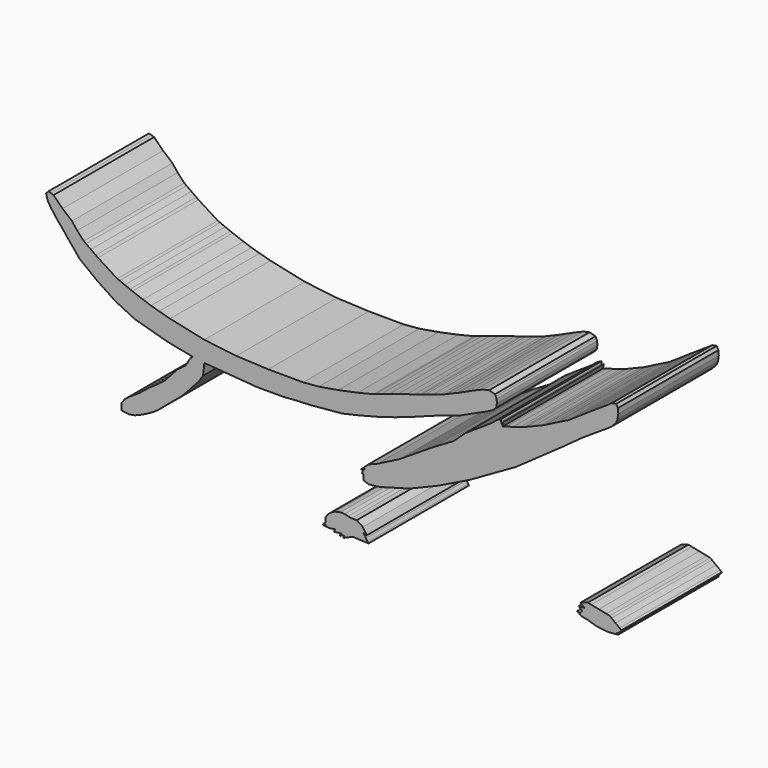
from build123d import *

# Parameters (mm, degrees)
F1_DEPTH = 12.7


with BuildPart() as f1:
    # F0 (on Front) → F1 (new body)
    with BuildSketch(Plane.XZ):
        Polygon((-34.312606, 31.92018), (-34.629344, 31.78937), (-34.960052, 31.69158), (-35.687762, 31.473648), (-36.415218, 31.257494), (-36.74618, 31.15818), (-36.704778, 31.37027), (-36.662106, 31.581344), (-36.74745, 31.454598), (-36.831524, 31.326582), (-36.874196, 31.538672), (-36.915344, 31.751016), (-37.28466, 31.567628), (-37.465254, 31.430976), (-37.60851, 31.292038), (-37.860732, 31.097728), (-37.97808, 31.021782), (-38.282372, 30.81782), (-38.713918, 30.531308), (-39.208456, 30.20187), (-39.704772, 29.872432), (-40.13581, 29.58592), (-40.44061, 29.381958), (-40.556434, 29.304742), (-40.728646, 29.143452), (-41.10736, 28.789376), (-41.486328, 28.4353), (-41.657524, 28.272486), (-42.001694, 28.070048), (-42.75836, 27.623516), (-43.514772, 27.178508), (-43.85818, 26.9748), (-43.999912, 26.885138), (-44.374816, 26.645108), (-44.904152, 26.307542), (-45.50918, 25.920192), (-46.115478, 25.53462), (-46.64456, 25.1968), (-47.01921, 24.957024), (-47.16018, 24.866092), (-49.362106, 23.745698), (-50.311558, 23.368254), (-51.055524, 22.691598), (-50.928778, 22.73427), (-50.800762, 22.775672), (-50.886106, 22.564852), (-50.97018, 22.352508), (-50.800762, 22.352508), (-50.79365, 21.788882), (-50.278284, 21.618194), (-49.57826, 21.670264), (-49.023016, 21.776436), (-46.127924, 22.580092), (-43.351196, 23.727664), (-43.21048, 23.798276), (-42.83583, 23.979886), (-42.306494, 24.23795), (-41.700196, 24.532844), (-41.093644, 24.829008), (-40.564562, 25.086564), (-40.189912, 25.268682), (-40.047672, 25.337516), (-39.848028, 25.451816), (-39.32174, 25.753822), (-38.57498, 26.179526), (-37.720524, 26.668476), (-36.866068, 27.15768), (-36.119054, 27.583638), (-35.592512, 27.885644), (-35.391344, 27.99842), (-35.184588, 28.145994), (-34.637472, 28.53055), (-33.86455, 29.076142), (-32.978344, 29.70022), (-32.093662, 30.326076), (-31.32074, 30.871414), (-30.773624, 31.25597), (-30.565344, 31.40202), (-30.262322, 31.625286), (-29.592778, 32.11322), (-28.92298, 32.601154), (-28.618434, 32.82315), (-28.520644, 32.887666), (-28.26131, 33.057338), (-27.896312, 33.29686), (-27.476196, 33.57118), (-27.055572, 33.8455), (-26.690574, 34.085276), (-26.431494, 34.254694), (-26.33218, 34.318194), (-25.735534, 34.72053), (-25.258522, 35.221926), (-25.11679, 35.59556), (-25.040844, 36.105338), (-25.074118, 36.594542), (-25.258522, 36.904676), (-25.69845, 36.835842), (-26.078688, 36.565586), (-26.39695, 36.356036), (-27.094434, 35.893248), (-27.792934, 35.429952), (-28.11018, 35.219386), (-28.414472, 35.014154), (-29.084016, 34.56178), (-29.754068, 34.111438), (-30.05709, 33.904682), (-30.229302, 33.820608), (-30.608524, 33.63341), (-30.987238, 33.447228), (-31.15818, 33.36163), (-31.38424, 33.24733), (-31.878778, 32.992314), (-32.373316, 32.738822), (-32.598106, 32.622998), (-32.916368, 32.493458), (-33.613852, 32.2072), align=None)
        Polygon((-50.716688, 22.775672), (-50.800762, 22.86), (-50.716688, 22.86), align=None, mode=Mode.SUBTRACT)
        Polygon((-81.223612, 36.083494), (-82.127852, 36.999926), (-82.38236, 37.08527), (-82.636106, 37.169344), (-82.762852, 37.042598), (-82.889852, 36.915598), (-82.812382, 36.61918), (-82.733896, 36.322), (-82.394806, 35.765232), (-81.846674, 35.04438), (-81.261966, 34.327592), (-80.815688, 33.782), (-79.502508, 32.173926), (-77.724762, 30.806898), (-75.887834, 29.588714), (-73.914254, 28.621482), (-73.774046, 28.58135), (-73.398888, 28.476448), (-72.869806, 28.326588), (-72.263762, 28.154122), (-71.658734, 27.98318), (-71.129652, 27.833066), (-70.754494, 27.728164), (-70.612762, 27.687016), (-70.217284, 27.608276), (-69.343524, 27.43327), (-68.470018, 27.258264), (-68.073016, 27.178508), (-68.373244, 26.872438), (-68.504054, 26.641044), (-68.59524, 26.432764), (-68.77304, 26.189178), (-68.914772, 26.078688), (-69.22643, 25.833578), (-69.537834, 25.589738), (-69.67855, 25.477978), (-69.866002, 25.269952), (-70.275196, 24.812498), (-70.68439, 24.355044), (-70.870318, 24.145494), (-71.614538, 23.577804), (-72.390254, 23.051008), (-72.550274, 22.924516), (-72.898762, 22.644608), (-73.249028, 22.366478), (-73.407524, 22.238208), (-73.873106, 21.929598), (-74.436732, 21.563076), (-74.949304, 21.159216), (-75.256644, 20.743164), (-75.256644, 20.066508), (-74.541634, 19.96186), (-73.912984, 20.062444), (-73.304146, 20.309078), (-72.645524, 20.638516), (-72.008746, 20.989798), (-71.559674, 21.305266), (-71.146162, 21.659342), (-70.612762, 22.119844), (-69.767704, 22.81555), (-69.234812, 23.263352), (-68.72605, 23.770844), (-67.953128, 24.638508), (-67.437762, 25.200864), (-67.02425, 25.823926), (-66.887852, 27.008836), (-66.659252, 26.992326), (-66.055494, 26.945844), (-65.201038, 26.87955), (-64.22136, 26.80208), (-63.241428, 26.726388), (-62.38748, 26.660348), (-61.783722, 26.613358), (-61.553344, 26.595578), (-61.329062, 26.595578), (-60.834016, 26.595578), (-60.341002, 26.595578), (-60.114688, 26.595578), (-59.930284, 26.595578), (-59.522106, 26.595578), (-59.114182, 26.595578), (-58.928254, 26.595578), (-58.770012, 26.60777), (-58.421016, 26.632916), (-58.072528, 26.659078), (-57.912762, 26.67), (-57.635902, 26.683716), (-57.023762, 26.712672), (-56.4134, 26.742898), (-56.135016, 26.755344), (-55.633366, 26.80081), (-54.526688, 26.901648), (-53.420518, 27.002232), (-52.917344, 27.046174), (-52.692808, 27.098498), (-52.198016, 27.211528), (-51.704494, 27.326082), (-51.478688, 27.376882), (-49.392332, 27.908758), (-47.609252, 28.444952), (-45.856144, 29.05125), (-43.85818, 29.79801), (-43.735244, 29.840936), (-43.408854, 29.951172), (-42.948606, 30.10662), (-42.419524, 30.28442), (-41.890188, 30.46222), (-41.42994, 30.618176), (-41.10355, 30.728158), (-40.979344, 30.76956), (-40.702484, 30.899354), (-40.090344, 31.181548), (-39.479982, 31.46425), (-39.201852, 31.592266), (-38.77183, 31.778448), (-38.212268, 32.03448), (-37.695378, 32.325564), (-37.388038, 32.61487), (-37.31514, 33.024064), (-37.338762, 33.443164), (-37.424106, 33.612582), (-37.50818, 33.782), (-38.10508, 33.94456), (-38.736016, 33.796986), (-39.595806, 33.44418), (-40.47109, 33.040828), (-41.148762, 32.731964), (-41.374822, 32.638238), (-41.86936, 32.428688), (-42.364406, 32.219392), (-42.588688, 32.124142), (-42.947082, 32.008572), (-43.731434, 31.753302), (-44.516802, 31.500064), (-44.873672, 31.38297), (-45.086016, 31.315152), (-45.64126, 31.135066), (-46.428152, 30.88005), (-47.329344, 30.58795), (-48.23206, 30.29712), (-49.018952, 30.042104), (-49.574196, 29.86151), (-49.785016, 29.792676), (-51.379374, 29.40812), (-53.35143, 28.997402), (-55.319168, 28.669488), (-56.897016, 28.533344), (-60.416694, 28.5496), (-63.659004, 28.688792), (-66.887852, 29.074872), (-70.359016, 29.82595), (-71.464424, 30.12313), (-72.280272, 30.36316), (-73.089262, 30.637226), (-74.169524, 31.037022), (-74.40803, 31.133542), (-74.931524, 31.344108), (-75.456288, 31.555182), (-75.693524, 31.650178), (-77.640688, 32.879538), (-77.866494, 33.03778), (-78.360016, 33.386522), (-78.854808, 33.735264), (-79.079344, 33.89376), (-79.733902, 34.613088), (-80.279494, 35.281108), align=None)
        Polygon((-53.112924, 18.19783), (-53.679344, 18.073878), (-54.04739, 17.89303), (-54.411118, 17.59712), (-54.642512, 17.233138), (-54.611016, 16.848582), (-54.780434, 16.679164), (-54.950106, 16.51), (-54.313328, 16.41602), (-53.679344, 16.51), (-53.722016, 16.383), (-53.764688, 16.256254), (-53.38445, 16.298926), (-53.002688, 16.341598), (-53.088032, 16.257524), (-53.172106, 16.171926), (-53.172106, 16.086582), (-52.960016, 16.171926), (-52.747672, 16.256254), (-52.790344, 16.129254), (-52.833524, 16.002508), (-52.68849, 16.068802), (-52.367434, 16.210788), (-52.047902, 16.354044), (-51.901852, 16.418814), (-51.6509, 16.407638), (-51.09845, 16.379952), (-50.545746, 16.354044), (-50.293524, 16.341598), (-50.373534, 16.461486), (-50.547016, 16.72336), (-50.722022, 16.98498), (-50.800762, 17.103598), (-50.63109, 17.060926), (-50.461672, 17.018254), (-50.864262, 17.626076), (-51.478688, 18.026888), (-51.985672, 18.026888), (-52.338478, 18.0975), (-52.68976, 18.18005), align=None)
        Polygon((-54.611016, 16.51), (-54.69509, 16.595344), (-54.611016, 16.595344), align=None, mode=Mode.SUBTRACT)
        Polygon((-25.724612, 17.693386), (-25.909016, 17.833848), (-26.253694, 17.90573), (-27.010106, 18.061432), (-27.766772, 18.218404), (-28.11018, 18.288508), (-28.22956, 18.250154), (-28.491688, 18.162016), (-28.753562, 18.073878), (-28.87218, 18.034), (-28.661106, 17.865598), (-28.448762, 17.69618), (-28.74518, 17.69618), (-29.041344, 17.69618), (-28.87218, 17.526508), (-28.702508, 17.357344), (-28.787852, 17.230344), (-28.87218, 17.103598), (-29.041344, 17.14627), (-29.211016, 17.187672), (-28.775406, 16.87068), (-28.195524, 16.75638), (-27.156156, 16.453104), (-26.078688, 16.341598), (-25.919938, 16.355314), (-25.57018, 16.38427), (-25.221438, 16.413226), (-25.061672, 16.425672), (-25.061672, 16.51), (-25.23109, 16.51), (-24.926544, 16.664178), (-24.724106, 16.93418), (-24.910034, 17.076166), (-25.316688, 17.384776), align=None)
    extrude(amount=F1_DEPTH)


solid = f1.part
